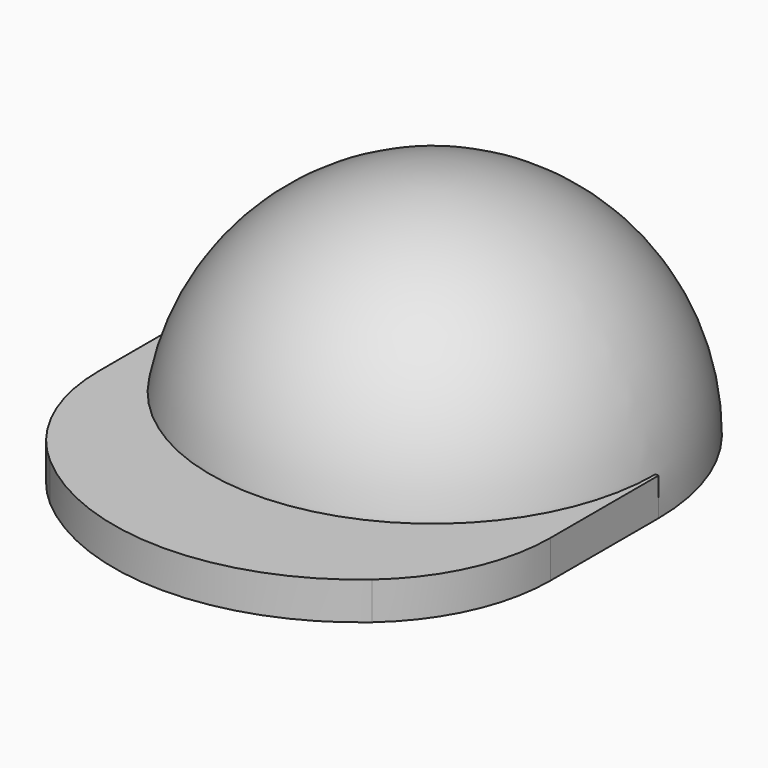
from build123d import *

# Parameters (mm, degrees)
F3_DEPTH = 1
F4_R     = 5


with BuildPart() as f1:
    # F0 (on Front) → F1 (revolve)
    with BuildSketch(Plane.XZ):
        with BuildLine():
            Line((5.5, 0), (6, 0))
            ThreePointArc((6, 0), (4.2426406871, 4.2426406871), (0, 6))
            Line((0, 6), (0, 5.5))
            ThreePointArc((0, 5.5), (1.2856151892, 5.3476343915), (2.5, 4.8989794856))
            ThreePointArc((2.5, 4.8989794856), (3.0178958157, 4.5980762114), (3.5, 4.2426406871))
            ThreePointArc((3.5, 4.2426406871), (4.9749371855, 2.3452078799), (5.5, 0))
        make_face()
        with BuildLine():
            Line((3.5, 2.5), (3.5, 4.2426406871))
            ThreePointArc((3.5, 4.2426406871), (3.0178958157, 4.5980762114), (2.5, 4.8989794856))
            Line((2.5, 4.8989794856), (2.5, 2.5))
            Line((2.5, 2.5), (3.5, 2.5))
        make_face()
    revolve(axis=Axis((0, 0, 3), (0, 0, -1)))

    # F2 (on face) → F3 (join)
    with BuildSketch(Plane(origin=(0, 0, 0), x_dir=(1, 0, 0), z_dir=(0, 0, -1))):
        with BuildLine():
            Line((-6.0000796802, 5), (-6.0000796802, 0))
            Line((-6.0000796802, 0), (-5.5000796802, 0))
            ThreePointArc((-5.5000796802, 0), (0, 5.4891055059), (5.5000796802, 0))
            Line((5.5000796802, 0), (6.0000796802, 0))
            Line((6.0000796802, 0), (6.0000796802, 5))
            ThreePointArc((6.0000796802, 5), (0, 8.9616150573), (-6.0000796802, 5))
        make_face()
    extrude(amount=-F3_DEPTH)

    # F4
    f4_edges = [f1.edges().sort_by_distance(p)[0] for p in [
        (6.00008, -5, 0.5),
        (-6.00008, -5, 0.5),
    ]]
    fillet(f4_edges, radius=F4_R)


solid = f1.part
